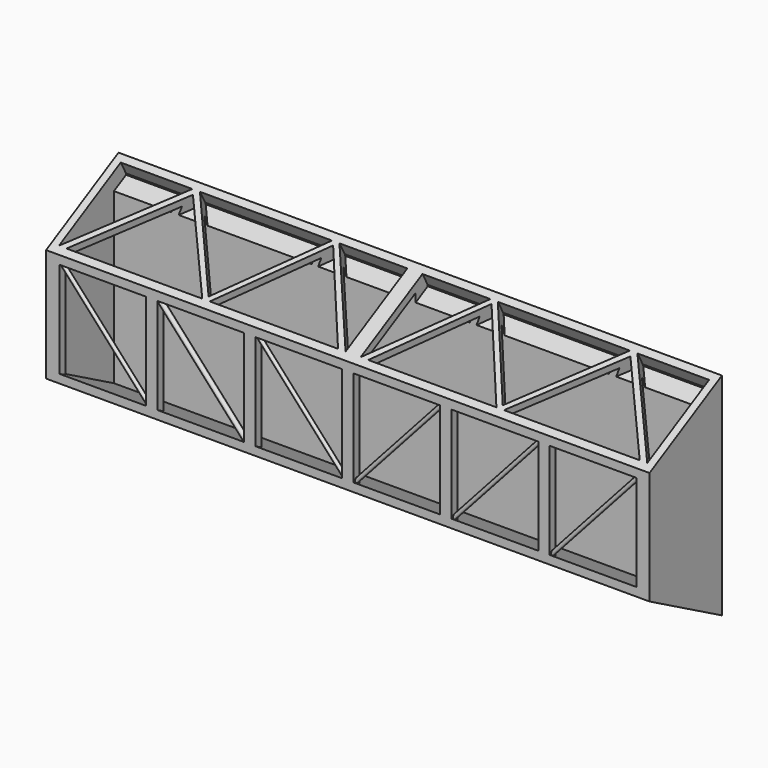
from build123d import *

# Parameters (mm, degrees)
F1_DEPTH      = 20
F1_DEPTH_BACK = 20
F3_DEPTH      = 2
F5_DEPTH      = 19.5
F5_DEPTH_BACK = 19.5
F6_W          = 0.375
F6_H          = 7.5
F7_DEPTH      = 0.5
F17_DEPTH     = 1
F19_DEPTH     = 1


with BuildPart() as f1:
    # F0 (on Right) → F1 (new body, two sides)
    with BuildSketch(Plane.YZ) as f1_sk:
        Polygon((0, -7), (0, 0), (-6, 0), (-6, -3.75), align=None)
        Polygon((-6, 0), (0, 0), (0, 7), (-6, 3.75), align=None)
    extrude(amount=F1_DEPTH)
    extrude(f1_sk.sketch, amount=-F1_DEPTH_BACK)

    # F2 (on face) → F3 (join)
    with BuildSketch(Plane(origin=(0, 0, 0), x_dir=(-1, 0, 0), z_dir=(0, 1, 0))):
        with BuildLine():
            ThreePointArc((2.75, -4), (-1.9445436483, -2.0554563517), (0, -6.75))
            ThreePointArc((0, -6.75), (1.9445436483, -5.9445436483), (2.75, -4))
        make_face()
    extrude(amount=F3_DEPTH)

    # F4 (on Right) → F5 (cut, two sides)
    with BuildSketch(Plane.YZ) as f5_sk:
        Polygon((-1, 5.8904322458), (-2.7620611939, 4.9370331568), (-6, 3.185080433), (-6, -3.185), (-1, -5.89), (-1, 0), align=None)
    extrude(amount=-F5_DEPTH, mode=Mode.SUBTRACT)
    extrude(f5_sk.sketch, amount=F5_DEPTH_BACK, mode=Mode.SUBTRACT)

    # F6 (on face) → F7 (join)
    with BuildSketch(Plane.XZ.offset(6)):
        with Locations((-0.1875, 0)):
            Rectangle(F6_W, F6_H)
        with Locations((0.1875, 0)):
            Rectangle(F6_W, F6_H)
        with Locations((6.6875, 0)):
            Rectangle(F6_W, F6_H)
        with Locations((6.3125, 0)):
            Rectangle(F6_W, F6_H)
        with Locations((13.1875, 0)):
            Rectangle(F6_W, F6_H)
        with Locations((12.8125, 0)):
            Rectangle(F6_W, F6_H)
        with Locations((19.6875, 0)):
            Rectangle(F6_W, F6_H)
        with Locations((19.3125, 0)):
            Rectangle(F6_W, F6_H)
        with Locations((-6.6875, 0)):
            Rectangle(F6_W, F6_H)
        with Locations((-6.3125, 0)):
            Rectangle(F6_W, F6_H)
        with Locations((-13.1875, 0)):
            Rectangle(F6_W, F6_H)
        with Locations((-12.8125, 0)):
            Rectangle(F6_W, F6_H)
        with Locations((-19.6875, 0)):
            Rectangle(F6_W, F6_H)
        with Locations((-19.3125, 0)):
            Rectangle(F6_W, F6_H)
    extrude(amount=-F7_DEPTH)

    # F9 (on offset) → F10 (revolve)
    with BuildSketch(Plane.XZ.offset(5.75)):
        Polygon((-13.086971221, -3.3170442338), (-19.1837764068, 3.4343508854), (-19.2789044945, 3.353184308), (-13.3750620526, -3.1845304184), (-13.1797424519, -3.4008207144), align=None)
    revolve(axis=Axis((-16.3269832736, -5.75, 0.0843269448), (-0.6702118448, 0, 0.7421698479)))

    # F9 (on offset) → F11 (revolve)
    with BuildSketch(Plane.XZ.offset(5.75)):
        Polygon((-6.586971221, -3.3170442338), (-12.6837764068, 3.4343508854), (-12.8043608498, 3.3254578575), (-12.7513883635, 3.2667979242), (-6.8750620526, -3.1845304184), (-6.6797424519, -3.4008207144), align=None)
    revolve(axis=Axis((-12.7778746067, -5.75, 3.2961278908), (-0.6702118448, 0, 0.7421698479)))

    # F9 (on offset) → F12 (revolve)
    with BuildSketch(Plane.XZ.offset(5.75)):
        Polygon((-6.2765476378, 3.3505744048), (-0.3750620526, -3.1845304184), (-0.1797424519, -3.4008207144), (-0.086971221, -3.3170442338), (-6.1837764068, 3.4343508854), align=None)
    revolve(axis=Axis((-3.3258048452, -5.75, 0.0830219932), (-0.6702118448, 0, 0.7421698479)))

    # F9 (on offset) → F13 (revolve)
    with BuildSketch(Plane.XZ.offset(5.75)):
        Polygon((0.086971221, -3.3170442338), (0.1797424519, -3.4008207144), (0.3750620526, -3.1845304184), (6.2765476378, 3.3505744048), (6.1837764068, 3.4343508854), align=None)
    revolve(axis=Axis((3.3258048452, -5.75, 0.0830219932), (0.6702118448, 0, 0.7421698479)))

    # F9 (on offset) → F14 (revolve)
    with BuildSketch(Plane.XZ.offset(5.75)):
        Polygon((12.7765476378, 3.3505744048), (12.6837764068, 3.4343508854), (6.586971221, -3.3170442338), (6.6797424519, -3.4008207144), (6.8750620526, -3.1845304184), align=None)
    revolve(axis=Axis((9.8258048452, -5.75, 0.0830219932), (0.6702118448, 0, 0.7421698479)))

    # F9 (on offset) → F15 (revolve)
    with BuildSketch(Plane.XZ.offset(5.75)):
        Polygon((19.2765476378, 3.3505744048), (19.1837764068, 3.4343508854), (13.086971221, -3.3170442338), (13.1797424519, -3.4008207144), (13.3750620526, -3.1845304184), align=None)
    revolve(axis=Axis((16.3258048452, -5.75, 0.0830219932), (0.6702118448, 0, 0.7421698479)))

    # F16 (on face) → F17 (cut)
    with BuildSketch(Plane(origin=(0, -2.9315436242, 5.4120805369), x_dir=(1, 0, 0), z_dir=(0, -0.4762831485, 0.8792919665))):
        Polygon((14.25, 2.8339820398), (8.25, 2.8339820398), (7.5, 2.8339820398), (5.5, 2.8339820398), (9.75, -2.7466899922), align=None)
        Polygon((10, -2.9896899922), (19, -2.9896899922), (14.5, 2.5274729855), align=None)
        Polygon((19.5, -2.9896899922), (19.5, 2.8339820398), (14.75, 2.8339820398), align=None)
        Polygon((5.25, 2.5909820398), (1, -2.9896899922), (9.5, -2.9896899922), align=None)
        Polygon((5, 2.8339820398), (0.5, 2.8339820398), (0.5, -2.9896899922), align=None)
        Polygon((-0.5, -2.9896899922), (-0.5, 2.8339820398), (-5, 2.8339820398), align=None)
        Polygon((-1, -2.9896899922), (-5.25, 2.5909820398), (-9.5, -2.9896899922), align=None)
        Polygon((-8.25, 2.8339820398), (-14.25, 2.8339820398), (-9.75, -2.7466899922), (-5.5, 2.8339820398), (-7.5, 2.8339820398), align=None)
        Polygon((-14.5, 2.5274729855), (-19, -2.9896899922), (-10, -2.9896899922), align=None)
        Polygon((-19.5, 2.8339820398), (-19.5, -2.9896899922), (-14.75, 2.8339820398), align=None)
    extrude(amount=-F17_DEPTH, mode=Mode.SUBTRACT)

    # F18 (on face) → F19 (cut)
    with BuildSketch(Plane(origin=(0, 2, 0), x_dir=(-1, 0, 0), z_dir=(0, 1, 0))):
        with BuildLine():
            ThreePointArc((2.5, -4), (1.767766953, -2.232233047), (0, -1.5))
            ThreePointArc((0, -1.5), (-1.767766953, -5.767766953), (2.5, -4))
        make_face()
    extrude(amount=-F19_DEPTH, mode=Mode.SUBTRACT)


solid = f1.part
